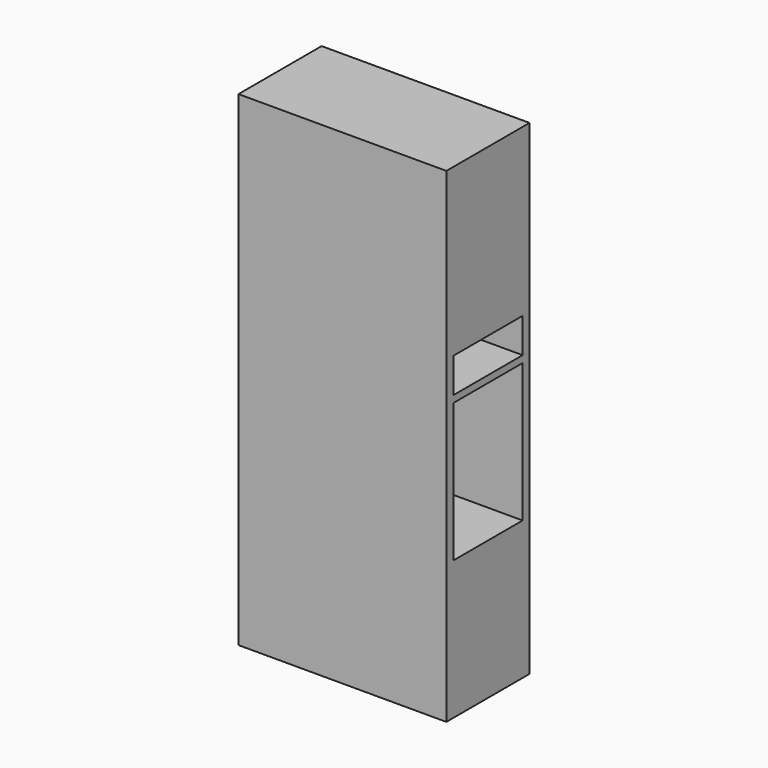
from build123d import *

# Parameters (mm, degrees)
F0_W     = 60
F0_H     = 140
F1_DEPTH = 30
F2_W     = 25
F2_H     = 40
F2_H_2   = 10
F3_DEPTH = 55


with BuildPart() as f1:
    # F0 (on Front) → F1 (new body)
    with BuildSketch(Plane.XZ):
        with Locations((30, 70)):
            Rectangle(F0_W, F0_H)
    extrude(amount=F1_DEPTH)

    # F2 (on face) → F3 (cut)
    with BuildSketch(Plane.YZ.offset(60)):
        with Locations((-15, 60)):
            Rectangle(F2_W, F2_H)
        with Locations((-15, 87)):
            Rectangle(F2_W, F2_H_2)
    extrude(amount=-F3_DEPTH, mode=Mode.SUBTRACT)


solid = f1.part
